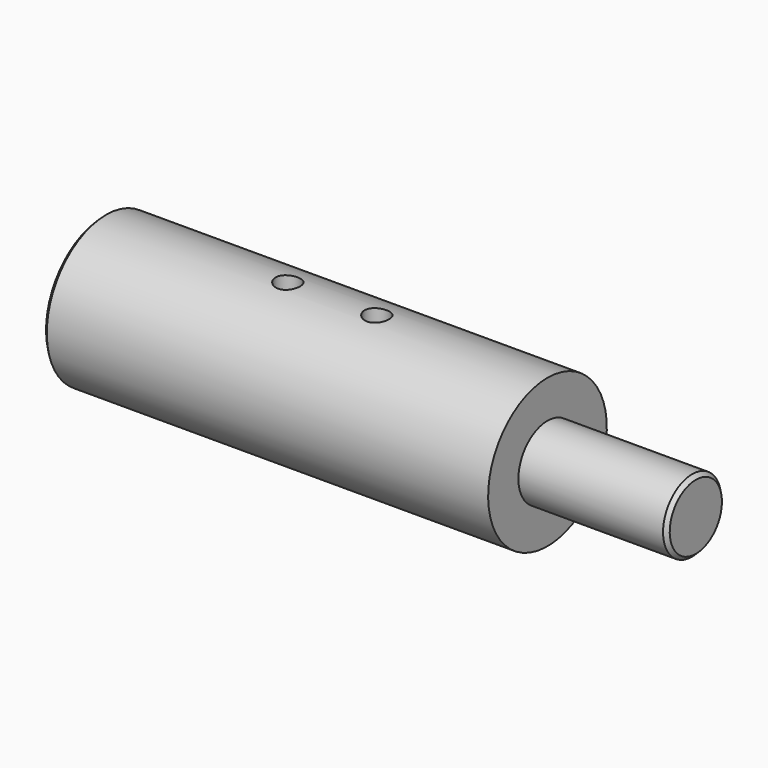
from build123d import *

# Parameters (mm, degrees)
F3_SIZE = 0.5
F5_D    = 3.3


with BuildPart() as f1:
    # F0 (on Front) → F1 (revolve)
    with BuildSketch(Plane.XZ):
        Polygon((0, 3.6), (0, 0), (40, 0), (40, 4.9), (20, 4.9), (20, 10), (-40, 10), (-40, 5.05), (-20, 5.05), (-20, 3.6), align=None)
    revolve(axis=Axis((-1.4153197408, 0, 0), (1, 0, 0)))

    # F3
    f3_edges = [f1.edges().sort_by_distance(p)[0] for p in [
        (-40, 0, -10),
        (40, 0, -4.9),
    ]]
    chamfer(f3_edges, length=F3_SIZE)

    # F5 (through all)
    with Locations(Plane(origin=(0, 0, -25), x_dir=(1, 0, 0), z_dir=(0, 0, -1))):
        with Locations((-15, 0), (-3, 0)):
            Hole(F5_D / 2)


solid = f1.part
